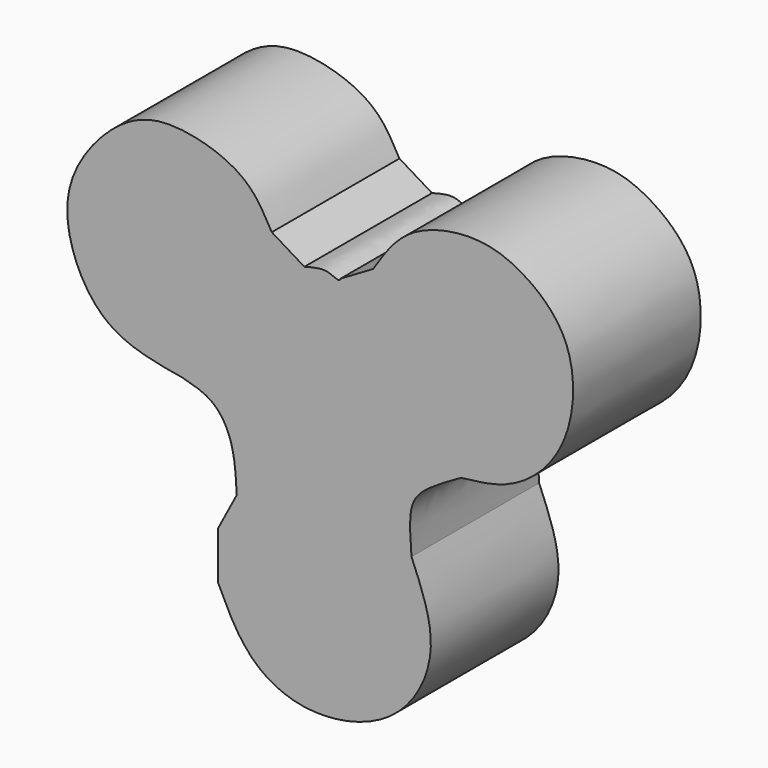
from build123d import *

# Parameters (mm, degrees)
F1_DEPTH = 25.4


with BuildPart() as f1:
    # F0 (on Front) → F1 (new body)
    with BuildSketch(Plane.XZ):
        with BuildLine():
            add(Edge.make_bspline(
                [(-27.6286881417, -20.3854255378), (-27.6286881417, -17.8748021523), (-27.6286881417, -15.3641787668), (-27.6286881417, -12.8535553813)],
                knots=[0, 0, 0, 0, 7.5318701565, 7.5318701565, 7.5318701565, 7.5318701565], degree=3))
            add(Edge.make_bspline(
                [(-27.6286881417, -20.3854255378), (-26.1092043698, -23.5854090845), (-23.0847120299, -29.9548918678), (-13.2209182165, -34.8623586844), (1.2200823016, -31.7716672157), (8.2208434269, -18.8775586444), (4.8589181601, -10.7967678999), (3.183865454, -6.7705777474)],
                knots=[0, 0, 0, 0, 0.1867481255, 0.3717172144, 0.5860087813, 0.7937321457, 1, 1, 1, 1], degree=3))
            add(Edge.make_bspline(
                [(3.183865454, -6.7705777474), (2.980379295, -4.2650682035), (2.6273161112, 0.0821718286), (4.9825515642, 3.415960072), (8.8316287859, 5.5850452916), (11.0661461949, 6.8442714401)],
                knots=[0, 0, 0, 0, 0.3633196805, 0.6303858884, 1, 1, 1, 1], degree=3))
            add(Edge.make_bspline(
                [(11.0661461949, 6.8442714401), (13.9059741749, 7.1536443651), (20.0255031244, 7.8203102985), (28.9765689093, 16.5358193263), (29.6545930317, 31.4669019827), (21.5535617346, 38.8777793296), (13.5997745486, 41.9100492775), (2.2985353413, 39.6302648635), (-1.2083426226, 34.1974762045), (-2.9069874436, 31.5659679472)],
                knots=[0, 0, 0, 0, 0.1314945034, 0.2833567477, 0.4484177559, 0.5900162929, 0.7189401151, 0.8638615536, 1, 1, 1, 1], degree=3))
            add(Edge.make_bspline(
                [(-2.9069874436, 31.5659679472), (-4.6387010564, 30.5508263409), (-6.3704146693, 29.5356847346), (-8.1021282822, 28.5205431283)],
                knots=[0, 0, 0, 0, 6.0219681717, 6.0219681717, 6.0219681717, 6.0219681717], degree=3))
            add(Edge.make_bspline(
                [(-8.1021282822, 28.5205431283), (-8.1761618739, 28.3809412314), (-8.4048388965, 27.9497349996), (-10.3621891641, 29.2735854161), (-12.5708455735, 28.6646145593), (-13.8626433909, 28.3084399998)],
                knots=[0, 0, 0, 0, 0.1657863704, 0.5120855642, 1, 1, 1, 1], degree=3))
            add(Edge.make_bspline(
                [(-13.8626433909, 28.3084399998), (-15.5924912542, 29.3608518938), (-17.3223391175, 30.4132637878), (-19.0521869808, 31.4656756818)],
                knots=[0, 0, 0, 0, 6.0744958493, 6.0744958493, 6.0744958493, 6.0744958493], degree=3))
            add(Edge.make_bspline(
                [(-19.0521869808, 31.4656756818), (-20.2263646051, 33.6196190808), (-22.7458247198, 38.2413853035), (-32.5256777267, 41.6603853611), (-41.6076600705, 41.1351126394), (-50.5620557466, 31.7856991181), (-52.7026223099, 21.6594829992), (-46.6060756104, 8.7055327091), (-37.7443691815, 7.2154791487), (-33.2804918289, 6.4648995176)],
                knots=[0, 0, 0, 0, 0.1206556748, 0.258893675, 0.3899926295, 0.5432229975, 0.683576491, 0.840609058, 1, 1, 1, 1], degree=3))
            add(Edge.make_bspline(
                [(-33.2804918289, 6.4648995176), (-31.5781708039, 6.0201695547), (-28.1183865357, 5.1163037698), (-25.012792521, -0.0055690428), (-24.7592542473, -4.6733793168), (-24.6234927326, -7.1728401817)],
                knots=[0, 0, 0, 0, 0.3103245083, 0.630701164, 1, 1, 1, 1], degree=3))
            add(Edge.make_bspline(
                [(-27.6286881417, -12.8535553813), (-26.6269563387, -10.9599836481), (-25.6252245357, -9.0664119149), (-24.6234927326, -7.1728401817)],
                knots=[0, 0, 0, 0, 6.4266417844, 6.4266417844, 6.4266417844, 6.4266417844], degree=3))
        make_face()
    extrude(amount=F1_DEPTH)


solid = f1.part
